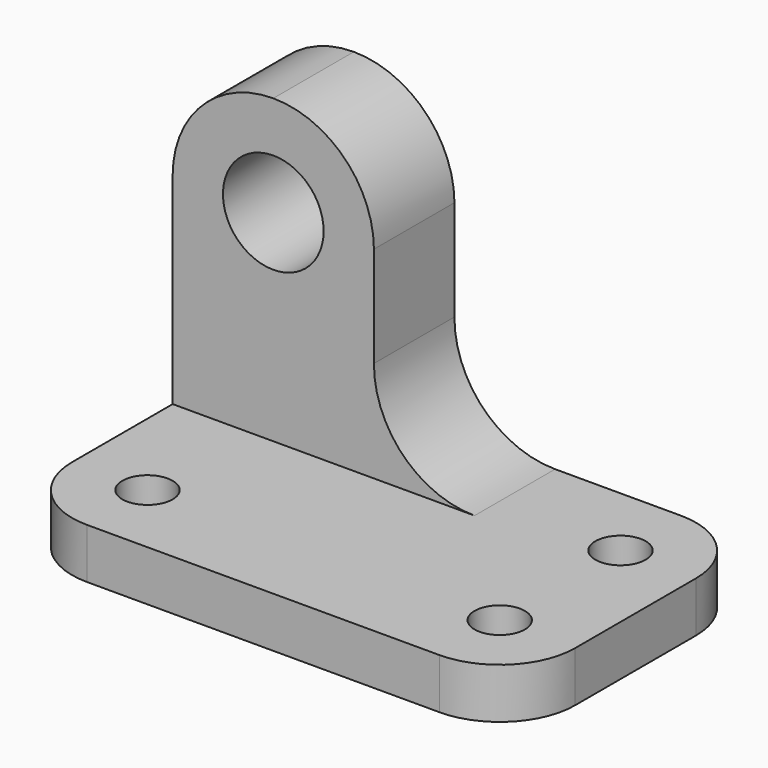
from build123d import *

# Parameters (mm, degrees)
F1_DEPTH  = 38.1
F2_W      = 25.4
F2_H      = 38.1
F3_DEPTH  = 38.101
F4_R      = 6.35
F5_DEPTH  = 12.701
F7_DEPTH  = 12.701
F8_R      = 3.175
F9_DEPTH  = 6.351
F11_DEPTH = 6.351


with BuildPart() as f1:
    # F0 (on Front) → F1 (new body)
    with BuildSketch(Plane.XZ):
        Polygon((-127.4177515995, 134.0467518509), (-165.5177515995, 134.0467518509), (-165.5177515995, 89.5967518509), (-102.0177515995, 89.5967518509), (-102.0177515995, 95.9467518509), (-127.4177515995, 95.9467518509), align=None)
    extrude(amount=F1_DEPTH)

    # F2 (on face) → F3 (cut, through all)
    with BuildSketch(Plane.YZ.offset(-127.4177515995)):
        with Locations((-25.4, 114.9967518509)):
            Rectangle(F2_W, F2_H)
    extrude(amount=-F3_DEPTH, mode=Mode.SUBTRACT)

    # F4 (on face) → F5 (cut, through all)
    with BuildSketch(Plane.XZ.offset(12.7)):
        with Locations((-152.8177515995, 121.3467518509)):
            Circle(F4_R)
        with BuildLine():
            ThreePointArc((-165.5177515995, 121.3467518509), (-161.7980077206, 130.327007972), (-152.8177515995, 134.0467518509))
            Line((-152.8177515995, 134.0467518509), (-165.5177515995, 134.0467518509))
            Line((-165.5177515995, 134.0467518509), (-165.5177515995, 121.3467518509))
        make_face()
    extrude(amount=-F5_DEPTH, mode=Mode.SUBTRACT)

    # F6 (on face) → F7 (cut, through all)
    with BuildSketch(Plane.XZ.offset(12.7)):
        with BuildLine():
            ThreePointArc((-152.8177515995, 134.0467518509), (-143.8630113716, 130.3524515711), (-140.1179560774, 121.4188191659))
            Line((-140.1179560774, 121.4188191659), (-140.1177515995, 108.7188191676))
            ThreePointArc((-140.1177515995, 108.7188191676), (-136.423523409, 99.6919990849), (-127.4177515995, 95.9467518509))
            Line((-127.4177515995, 95.9467518509), (-127.4177515995, 134.0467518509))
            Line((-127.4177515995, 134.0467518509), (-152.8177515995, 134.0467518509))
        make_face()
    extrude(amount=-F7_DEPTH, mode=Mode.SUBTRACT)

    # F8 (on face) → F9 (cut, through all)
    with BuildSketch(Plane.XY.offset(95.9467518509)):
        with Locations((-155.9927515995, -28.575)):
            Circle(F8_R)
        with Locations((-111.5427515995, -28.575)):
            Circle(F8_R)
        with Locations((-111.5427515995, -9.525)):
            Circle(F8_R)
    extrude(amount=-F9_DEPTH, mode=Mode.SUBTRACT)

    # F10 (on face) → F11 (cut, through all)
    with BuildSketch(Plane.XY.offset(95.9467518509)):
        with BuildLine():
            ThreePointArc((-155.9927515995, -38.1), (-162.7279436903, -35.3101920908), (-165.5177515995, -28.575))
            Line((-165.5177515995, -28.575), (-165.5177515995, -38.1))
            Line((-165.5177515995, -38.1), (-155.9927515995, -38.1))
        make_face()
        with BuildLine():
            ThreePointArc((-102.0177515995, -28.575), (-104.8075595087, -35.3101920908), (-111.5427515995, -38.1))
            Line((-111.5427515995, -38.1), (-102.0177515995, -38.1))
            Line((-102.0177515995, -38.1), (-102.0177515995, -28.575))
        make_face()
        with BuildLine():
            Line((-102.0177515995, 0), (-111.5427515995, 0))
            ThreePointArc((-111.5427515995, 0), (-104.8075595087, -2.7898079092), (-102.0177515995, -9.525))
            Line((-102.0177515995, -9.525), (-102.0177515995, 0))
        make_face()
    extrude(amount=-F11_DEPTH, mode=Mode.SUBTRACT)


solid = f1.part
